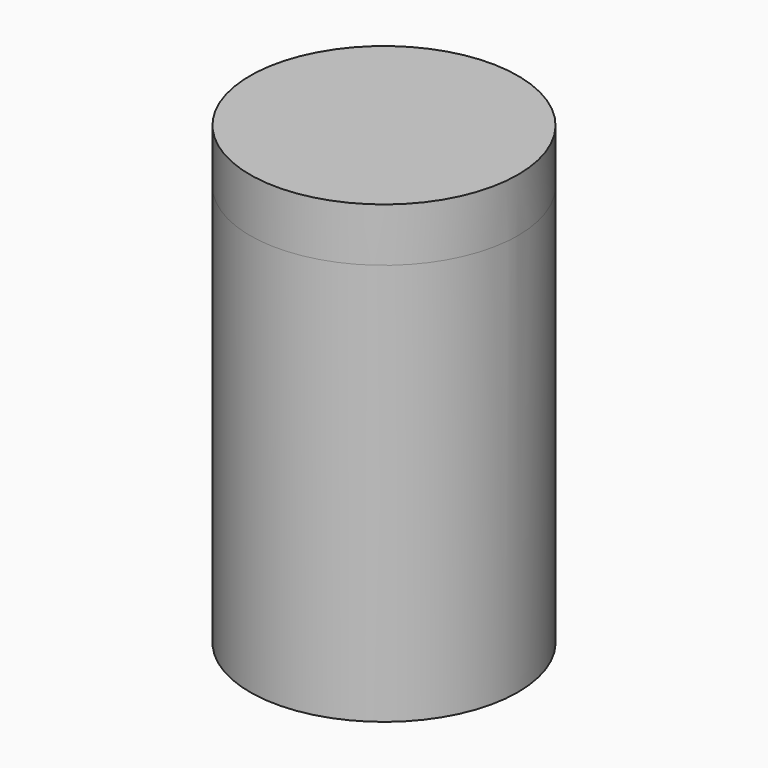
from build123d import *

# Parameters (mm, degrees)
F0_R     = 5.08
F1_DEPTH = 15.24
F3_R     = 5.08
F4_DEPTH = 2.032


with BuildPart() as f1:
    # F0 (on Top) → F1 (new body)
    with BuildSketch(Plane.XY):
        with Locations((0.600746, -2.876205)):
            Circle(F0_R)
        with BuildLine():
            Line((-1.050254, -6.450302), (-1.050254, -2.876205))
            Line((-1.050254, -2.876205), (-1.050254, 0.697892))
            ThreePointArc((-1.050254, 0.697892), (4.537746, -2.876205), (-1.050254, -6.450302))
        make_face(mode=Mode.SUBTRACT)
    extrude(amount=F1_DEPTH)

    # F3 (on offset) → F4 (join)
    with BuildSketch(Plane.XY.offset(15.24)):
        with Locations((0.600743, -2.876237)):
            Circle(F3_R)
    extrude(amount=F4_DEPTH)


solid = f1.part
